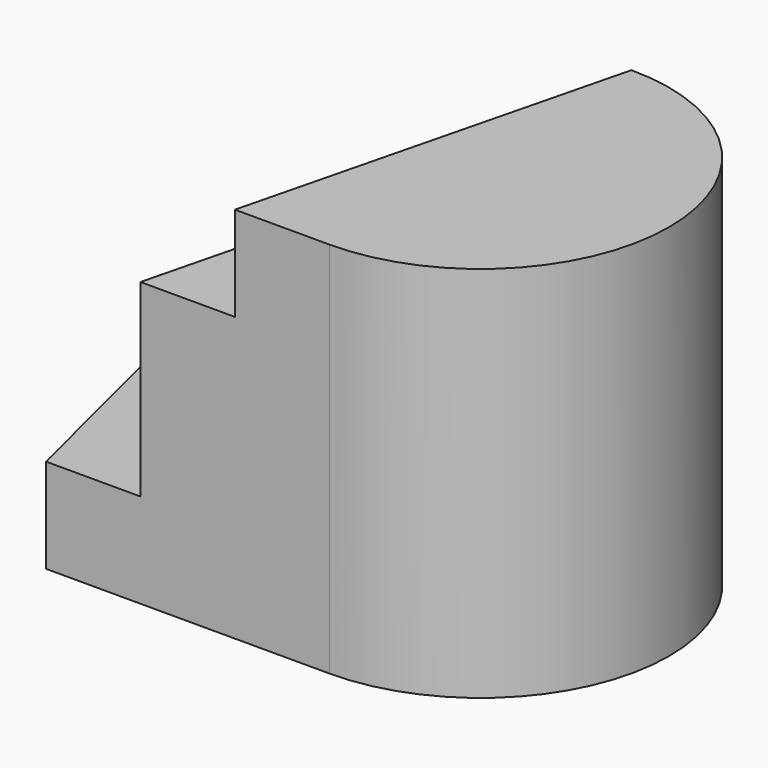
from build123d import *

# Parameters (mm, degrees)
F1_DEPTH = 40
F3_DEPTH = 30
F5_DEPTH = 10


with BuildPart() as f1:
    # F0 (on Top) → F1 (new body)
    with BuildSketch(Plane.XY):
        with BuildLine():
            Line((-10, -20), (0, -20))
            ThreePointArc((0, -20), (20, 0), (0, 20))
            Line((0, 20), (-10, -20))
        make_face()
    extrude(amount=F1_DEPTH)

    # F2 (on face) → F3 (join)
    with BuildSketch(Plane(origin=(0, 0, 0), x_dir=(1, 0, 0), z_dir=(0, 0, -1))):
        Polygon((-10, -20), (0, -20), (-10, 20), (-20, 20), align=None)
    extrude(amount=-F3_DEPTH)

    # F4 (on face) → F5 (join)
    with BuildSketch(Plane(origin=(0, 0, 0), x_dir=(1, 0, 0), z_dir=(0, 0, -1))):
        Polygon((-40, -20), (-10, -20), (-20, 20), (-30, 20), align=None)
    extrude(amount=-F5_DEPTH)


solid = f1.part
